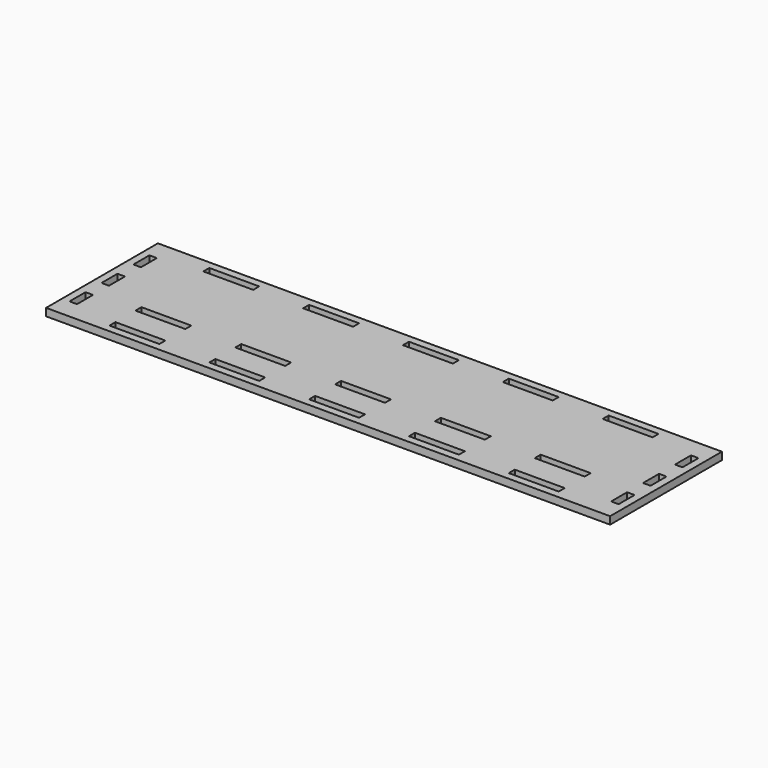
from build123d import *

# Parameters (mm, degrees)
SKETCH_W      = 226
SKETCH_H      = 56
PAD_DEPTH     = 3
SKETCH001_W   = 20
SKETCH001_H   = 3
SKETCH001_W_2 = 3
SKETCH001_H_2 = 8
POCKET_DEPTH  = 5


with BuildPart() as part:
    # Sketch → Pad (new body)
    with BuildSketch(Plane.XY):
        with Locations((113, 28)):
            Rectangle(SKETCH_W, SKETCH_H)
    extrude(amount=PAD_DEPTH)

    # Sketch001 (on Face6 of Pad) → Pocket (cut)
    with BuildSketch(Plane.XY.offset(3)):
        with Locations((33, 4.5)):
            Rectangle(SKETCH001_W, SKETCH001_H)
        with Locations((73, 4.5)):
            Rectangle(SKETCH001_W, SKETCH001_H)
        with Locations((113, 4.5)):
            Rectangle(SKETCH001_W, SKETCH001_H)
        with Locations((153, 4.5)):
            Rectangle(SKETCH001_W, SKETCH001_H)
        with Locations((193, 4.5)):
            Rectangle(SKETCH001_W, SKETCH001_H)
        with Locations((33, 17.5)):
            Rectangle(SKETCH001_W, SKETCH001_H)
        with Locations((73, 17.5)):
            Rectangle(SKETCH001_W, SKETCH001_H)
        with Locations((113, 17.5)):
            Rectangle(SKETCH001_W, SKETCH001_H)
        with Locations((153, 17.5)):
            Rectangle(SKETCH001_W, SKETCH001_H)
        with Locations((193, 17.5)):
            Rectangle(SKETCH001_W, SKETCH001_H)
        with Locations((33, 51.5)):
            Rectangle(SKETCH001_W, SKETCH001_H)
        with Locations((73, 51.5)):
            Rectangle(SKETCH001_W, SKETCH001_H)
        with Locations((113, 51.5)):
            Rectangle(SKETCH001_W, SKETCH001_H)
        with Locations((153, 51.5)):
            Rectangle(SKETCH001_W, SKETCH001_H)
        with Locations((193, 51.5)):
            Rectangle(SKETCH001_W, SKETCH001_H)
        with Locations((4.5, 12)):
            Rectangle(SKETCH001_W_2, SKETCH001_H_2)
        with Locations((4.5, 28)):
            Rectangle(SKETCH001_W_2, SKETCH001_H_2)
        with Locations((4.5, 44)):
            Rectangle(SKETCH001_W_2, SKETCH001_H_2)
        with Locations((221.5, 12)):
            Rectangle(SKETCH001_W_2, SKETCH001_H_2)
        with Locations((221.5, 28)):
            Rectangle(SKETCH001_W_2, SKETCH001_H_2)
        with Locations((221.5, 44)):
            Rectangle(SKETCH001_W_2, SKETCH001_H_2)
    extrude(amount=-POCKET_DEPTH, mode=Mode.SUBTRACT)


solid = part.part
